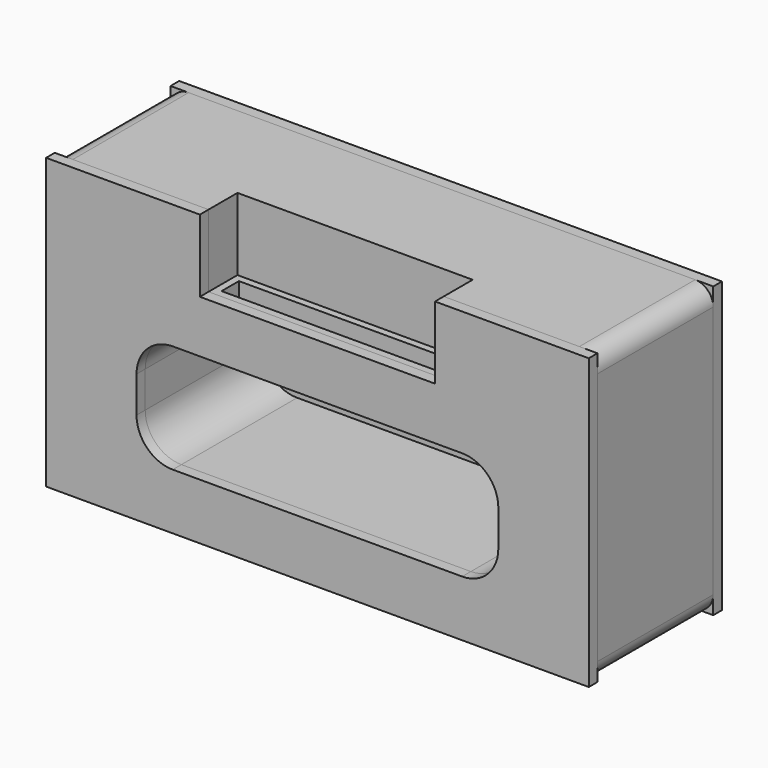
from build123d import *

# Parameters (mm, degrees)
F0_W      = 150
F0_H      = 40
F1_DEPTH  = 80
F2_W      = 65
F2_H      = 20
F3_DEPTH  = 10
F5_DEPTH  = 153.5
F6_W      = 61
F6_H      = 6
F7_DEPTH  = 36.1
F8_DEPTH  = 39.9
F10_DEPTH = 3
F11_DEPTH = 3
F12_W     = 150
F12_H     = 80
F13_DEPTH = 3
F14_R     = 5
F15_R     = 5
F16_R     = 5
F17_R     = 5


with BuildPart() as f1:
    # F0 (on Top) → F1 (new body)
    with BuildSketch(Plane.XY):
        Rectangle(F0_W, F0_H)
    extrude(amount=F1_DEPTH)

    # F2 (on face) → F3 (cut)
    with BuildSketch(Plane.XZ.offset(20)):
        with Locations((0, 70)):
            Rectangle(F2_W, F2_H)
    extrude(amount=-F3_DEPTH, mode=Mode.SUBTRACT)

    # F4 (on face) → F5 (cut)
    with BuildSketch(Plane.XZ.offset(20)):
        with BuildLine():
            Line((40, 45.5098941895), (-40, 45.5098941895))
            ThreePointArc((-40, 45.5098941895), (-47.0710678119, 42.5809620013), (-50, 35.5098941895))
            Line((-50, 35.5098941895), (-50, 25.5098941895))
            ThreePointArc((-50, 25.5098941895), (-47.0710678119, 18.4388263776), (-40, 15.5098941895))
            Line((-40, 15.5098941895), (40, 15.5098941895))
            ThreePointArc((40, 15.5098941895), (47.0710678119, 18.4388263776), (50, 25.5098941895))
            Line((50, 25.5098941895), (50, 35.5098941895))
            ThreePointArc((50, 35.5098941895), (47.0710678119, 42.5809620013), (40, 45.5098941895))
        make_face()
    extrude(amount=-F5_DEPTH, mode=Mode.SUBTRACT)

    # F6 (on face) → F7 (cut)
    with BuildSketch(Plane.XY.offset(60)):
        with Locations((0, -15)):
            Rectangle(F6_W, F6_H)
    extrude(amount=-F7_DEPTH, mode=Mode.SUBTRACT)

    # F6 (on face) → F8 (cut)
    with BuildSketch(Plane.XY.offset(60)):
        with Locations((0, -15)):
            Rectangle(F6_W, F6_H)
    extrude(amount=-F8_DEPTH, mode=Mode.SUBTRACT)


with BuildPart() as f10:
    # F9 (on face) → F10 (new body)
    with BuildSketch(Plane.XZ.offset(20)):
        Polygon((-75, 80), (-75, 0), (75, 0), (75, 80), (32.5, 80), (32.5, 60), (-32.5, 60), (-32.5, 80), align=None)
        with BuildLine():
            ThreePointArc((40, 45.5098941895), (47.0710678119, 42.5809620013), (50, 35.5098941895))
            Line((50, 35.5098941895), (50, 25.5098941895))
            ThreePointArc((50, 25.5098941895), (47.0710678119, 18.4388263776), (40, 15.5098941895))
            Line((40, 15.5098941895), (-40, 15.5098941895))
            ThreePointArc((-40, 15.5098941895), (-47.0710678119, 18.4388263776), (-50, 25.5098941895))
            Line((-50, 25.5098941895), (-50, 35.5098941895))
            ThreePointArc((-50, 35.5098941895), (-47.0710678119, 42.5809620013), (-40, 45.5098941895))
            Line((-40, 45.5098941895), (40, 45.5098941895))
        make_face(mode=Mode.SUBTRACT)
    extrude(amount=F10_DEPTH)


with BuildPart() as f11:
    # F11 (new): a face of the model
    f11_faces = [f1.part.faces().sort_by_distance(p)[0] for p in [
        (73.3, 20, 40),
    ]]
    extrude(f11_faces, amount=F11_DEPTH)


with BuildPart() as f13:
    # F12 (on face) → F13 (new body)
    with BuildSketch(Plane(origin=(0, 20, 0), x_dir=(-1, 0, 0), z_dir=(0, 1, 0))):
        with Locations((0, 40)):
            Rectangle(F12_W, F12_H)
    extrude(amount=F13_DEPTH)


with BuildPart() as f1_1:
    add(f1.part)

    # F14
    f14_edges = [f1_1.edges().sort_by_distance(p)[0] for p in [
        (-75, 0, 80),
    ]]
    fillet(f14_edges, radius=F14_R)

    # F15
    f15_edges = [f1_1.edges().sort_by_distance(p)[0] for p in [
        (75, 0, 80),
    ]]
    fillet(f15_edges, radius=F15_R)

    # F16
    f16_edges = [f1_1.edges().sort_by_distance(p)[0] for p in [
        (-75, 0, 0),
    ]]
    fillet(f16_edges, radius=F16_R)

    # F17
    f17_edges = [f1_1.edges().sort_by_distance(p)[0] for p in [
        (75, 0, 0),
    ]]
    fillet(f17_edges, radius=F17_R)


solid = Compound([f10.part, f11.part, f13.part, f1_1.part])
